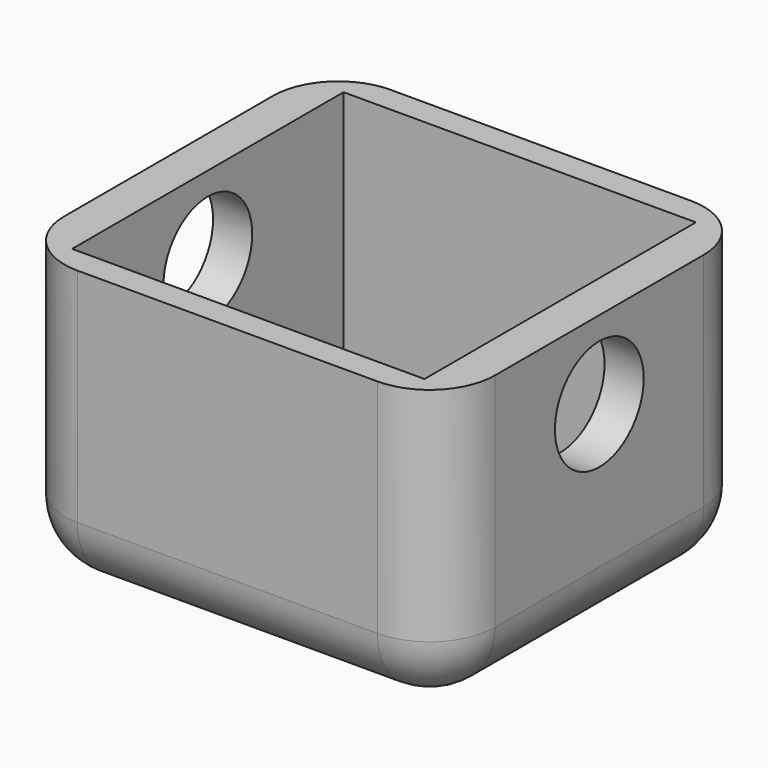
from build123d import *

# Parameters (mm, degrees)
F0_W     = 3
F0_H     = 13
F0_H_2   = 2
F0_W_2   = 27
F0_H_3   = 4
F1_DEPTH = 22
F0_W_3   = 7
F0_H_4   = 11.0040441751
F2_DEPTH = 2
F3_R     = 4.25
F4_DEPTH = 40
F5_R     = 5


with BuildPart() as f1:
    # F0 (on Top) → F1 (new body)
    with BuildSketch(Plane.XY):
        Polygon((3, 30), (0, 30), (0, 19), (3, 19), (3, 28), align=None)
        Polygon((33, 30), (3, 30), (3, 28), (30, 28), (33, 28), align=None)
        with Locations((31.5, 21.5)):
            Rectangle(F0_W, F0_H)
        with Locations((31.5, 8.5)):
            Rectangle(F0_W, F0_H)
        with Locations((31.5, 1)):
            Rectangle(F0_W, F0_H_2)
        with Locations((16.5, 1)):
            Rectangle(F0_W_2, F0_H_2)
        Polygon((3, 11), (0, 11), (0, 0), (3, 0), (3, 2), align=None)
        with Locations((1.5, 13)):
            Rectangle(F0_W, F0_H_3)
        with Locations((1.5, 17)):
            Rectangle(F0_W, F0_H_3)
    extrude(amount=F1_DEPTH)

    # F0 (on Top) → F2 (join)
    with BuildSketch(Plane.XY):
        Polygon((30, 28), (3, 28), (3, 19), (3, 15), (6.5, 15), (6.5, 26.0040441751), (13.5, 26.0040441751), (13.5, 15), (16.5, 15), (19.5, 15), (19.5, 26.0040441751), (26.5, 26.0040441751), (26.5, 15), (30, 15), align=None)
        Polygon((6.5, 15), (3, 15), (3, 11), (3, 2), (30, 2), (30, 15), (26.5, 15), (26.5, 3.9959558249), (19.5, 3.9959558249), (19.5, 15), (16.5, 15), (13.5, 15), (13.5, 3.9959558249), (6.5, 3.9959558249), align=None)
        with Locations((10, 9.4979779124)):
            Rectangle(F0_W_3, F0_H_4)
        with Locations((10, 20.5020220876)):
            Rectangle(F0_W_3, F0_H_4)
        with Locations((23, 20.5020220876)):
            Rectangle(F0_W_3, F0_H_4)
        with Locations((23, 9.4979779124)):
            Rectangle(F0_W_3, F0_H_4)
    extrude(amount=F2_DEPTH)

    # F3 (on Right) → F4 (cut)
    with BuildSketch(Plane.YZ):
        with Locations((15, 16)):
            Circle(F3_R)
    extrude(amount=F4_DEPTH, mode=Mode.SUBTRACT)

    # F5
    f5_edges = [f1.edges().sort_by_distance(p)[0] for p in [
        (16.5, 30, 0),
        (0, 15, 0),
        (16.5, 0, 0),
        (33, 15, 0),
        (33, 30, 11),
        (0, 30, 11),
        (0, 0, 11),
        (33, 0, 11),
    ]]
    fillet(f5_edges, radius=F5_R)


solid = f1.part
